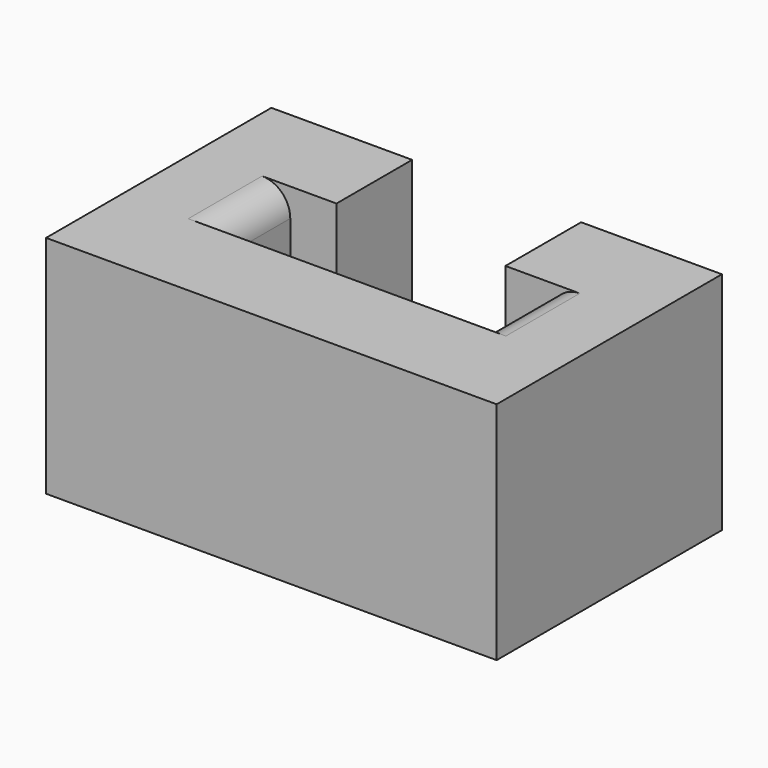
from build123d import *

# Parameters (mm, degrees)
PAD_DEPTH = 4
FILLET_R  = 0.5


with BuildPart() as part:
    # Sketch → Pad (new body)
    with BuildSketch(Plane.XY):
        Polygon((-2.32, 0), (2.32, 0), (2.32, 1.64), (1.5, 1.64), (1.5, 3.32), (4, 3.32), (4, -1.68), (-4, -1.68), (-4, 3.32), (-1.5, 3.32), (-1.5, 1.64), (-2.32, 1.64), align=None)
    extrude(amount=PAD_DEPTH)

    # Fillet
    fillet_edges = [part.edges().sort_by_distance(p)[0] for p in [
        (2.32, 0.82, 4),
        (-2.32, 0.82, 4),
        (2.32, 0.82, 0),
        (-2.32, 0.82, 0),
    ]]
    fillet(fillet_edges, radius=FILLET_R)


solid = part.part
